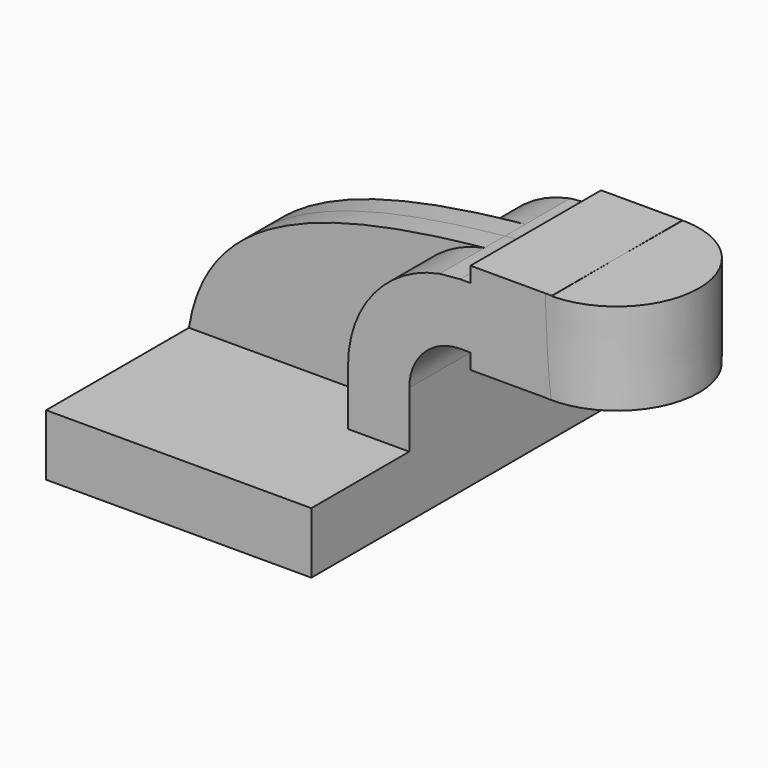
from build123d import *

# Parameters (mm, degrees)
F1_DEPTH = 63.5
F2_DEPTH = 25.4
F3_DEPTH = 7.9375


with BuildPart() as f1:
    # F0 (on Front) → F1 (new body, symmetric)
    with BuildSketch(Plane.XZ):
        Polygon((-41.275, -9.525), (41.275, -9.525), (41.275, 9.525), (22.225, 9.525), (-41.275, 9.525), align=None)
    extrude(amount=F1_DEPTH, both=True)

    # F0 (on Front) → F2 (join, symmetric)
    with BuildSketch(Plane.XZ):
        with BuildLine():
            Line((22.225, 9.525), (41.275, 9.525))
            Line((41.275, 9.525), (41.275, 27.0002))
            ThreePointArc((41.275, 27.0002), (45.9246798487, 38.2255201513), (57.15, 42.8752))
            Line((57.15, 42.8752), (60.325, 42.8752))
            Line((60.325, 42.8752), (60.325, 61.9252))
            Line((60.325, 61.9252), (57.15, 61.9252))
            add(Edge.make_bspline(
                [(50.7054314014, 61.3254554335), (52.822029921, 61.5361395895), (54.9703769796, 61.7357484347), (57.15, 61.9252)],
                knots=[107.251905299, 107.251905299, 107.251905299, 107.251905299, 111.5045361635, 111.5045361635, 111.5045361635, 111.5045361635], degree=3))
            ThreePointArc((50.7054314014, 61.3254554335), (30.2722007662, 49.3013105855), (22.225, 27.0002))
            Line((22.225, 27.0002), (22.225, 9.525))
        make_face()
        Polygon((60.325, 61.9252), (60.325, 42.8752), (60.325, 38.1), (85.725, 38.1), (85.6410190463, 66.675), (60.325, 66.675), align=None)
    extrude(amount=F2_DEPTH, both=True)

    # F0 (on Front) → F3 (join, symmetric)
    with BuildSketch(Plane.XZ):
        with BuildLine():
            add(Edge.make_bspline(
                [(-41.275, 9.525), (-35.8625339524, 43.6539850574), (-2.675459444, 56.0119735297), (50.7054314014, 61.3254554335)],
                knots=[0, 0, 0, 0, 107.251905299, 107.251905299, 107.251905299, 107.251905299], degree=3))
            Line((-41.275, 9.525), (22.225, 9.525))
            Line((22.225, 9.525), (22.225, 27.0002))
            ThreePointArc((22.225, 27.0002), (30.2722007662, 49.3013105855), (50.7054314014, 61.3254554335))
        make_face()
    extrude(amount=F3_DEPTH, both=True)

    # F0 (on Front) → F4 (revolve)
    with BuildSketch(Plane.XZ):
        Polygon((85.6410190463, 66.675), (85.725, 38.1), (111.125, 38.1), (111.125, 66.675), align=None)
    revolve(axis=Axis((85.6830095232, 0, 52.3875), (-0.0029389533, 0, 0.9999956813)))


solid = f1.part
